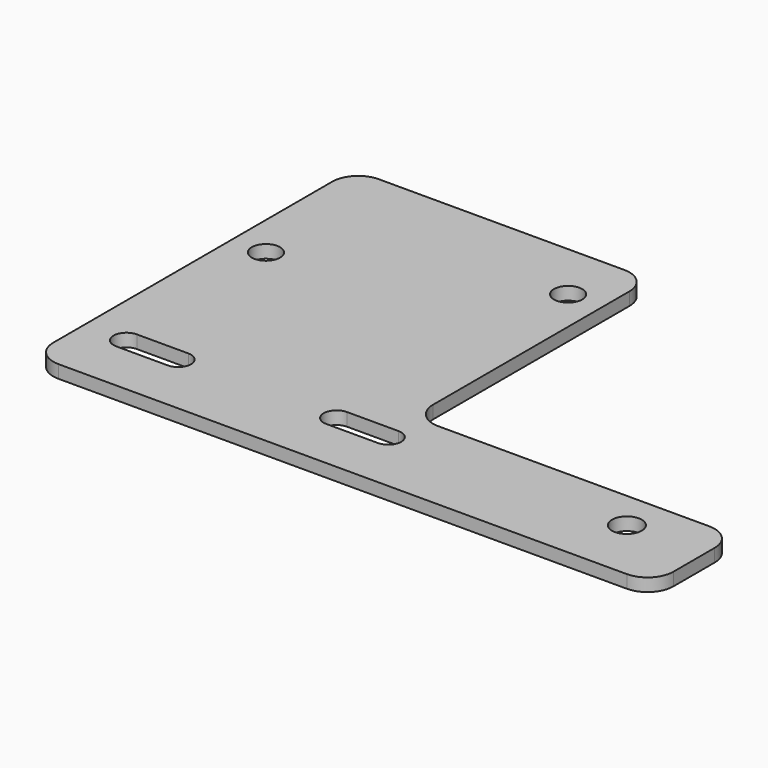
from build123d import *

# Parameters (mm, degrees)
F0_R     = 3.663821
F0_R_2   = 3.4798
F1_DEPTH = 3.175


with BuildPart() as f1:
    # F0 (on Top) → F1 (new body)
    with BuildSketch(Plane.XY):
        with BuildLine():
            ThreePointArc((-89.269999, -19.05), (-87.410127, -23.540128), (-82.919999, -25.4))
            Line((-82.919999, -25.4), (56.780001, -25.4))
            ThreePointArc((56.780001, -25.4), (61.270129, -23.540128), (63.130001, -19.05))
            Line((63.130001, -19.05), (63.130001, -6.35))
            ThreePointArc((63.130001, -6.35), (61.270129, -1.859872), (56.780001, 0))
            Line((56.780001, 0), (-9.894999, 0))
            ThreePointArc((-9.894999, 0), (-14.385127, 1.859872), (-16.244999, 6.35))
            Line((-16.244999, 6.35), (-16.244999, 66.675))
            ThreePointArc((-16.244999, 66.675), (-18.104871, 71.165128), (-22.594999, 73.025))
            Line((-22.594999, 73.025), (-82.919999, 73.025))
            ThreePointArc((-82.919999, 73.025), (-87.410127, 71.165128), (-89.269999, 66.675))
            Line((-89.269999, 66.675), (-89.269999, -19.05))
        make_face()
        with BuildLine():
            Line((-66.204435, -12.7), (-78.904435, -12.7))
            ThreePointArc((-78.904435, -12.7), (-82.079435, -9.525), (-78.904435, -6.35))
            Line((-78.904435, -6.35), (-66.204435, -6.35))
            ThreePointArc((-66.204435, -6.35), (-63.029435, -9.525), (-66.204435, -12.7))
        make_face(mode=Mode.SUBTRACT)
        with BuildLine():
            Line((-14.559238, -12.7), (-27.259238, -12.7))
            ThreePointArc((-27.259238, -12.7), (-30.434238, -9.525), (-27.259238, -6.35))
            Line((-27.259238, -6.35), (-14.559238, -6.35))
            ThreePointArc((-14.559238, -6.35), (-11.384238, -9.525), (-14.559238, -12.7))
        make_face(mode=Mode.SUBTRACT)
        with Locations((44.080001, -9.525)):
            Circle(F0_R, mode=Mode.SUBTRACT)
        with Locations((-80.837199, 35.7378)):
            Circle(F0_R_2, mode=Mode.SUBTRACT)
        with Locations((-24.677799, 58.381684)):
            Circle(F0_R_2, mode=Mode.SUBTRACT)
    extrude(amount=F1_DEPTH)


solid = f1.part
